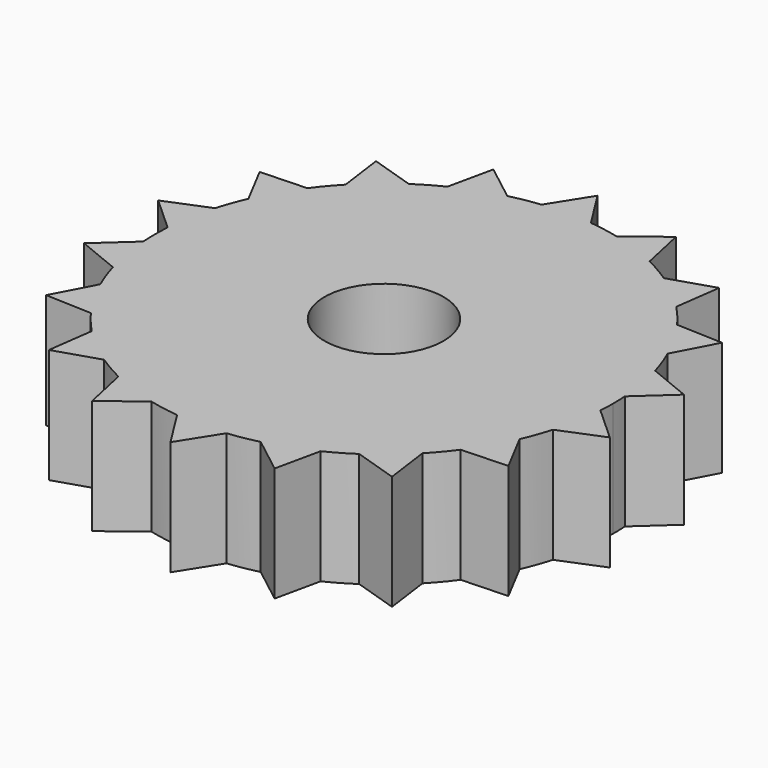
from build123d import *

# Parameters (mm, degrees)
F0_R     = 3.302
F1_DEPTH = 6.35


with BuildPart() as f1:
    # F0 (on Top) → F1 (new body)
    with BuildSketch(Plane.XY):
        with BuildLine():
            ThreePointArc((12.671918, -0.844097), (12.692977, -0.422282), (12.7, 0))
            ThreePointArc((12.7, 0), (12.692977, 0.422282), (12.671918, 0.844097))
            ThreePointArc((12.671918, 0.844097), (12.507058, 2.205332), (12.196406, 3.540859))
            ThreePointArc((12.196406, 3.540859), (11.934096, 4.343656), (11.619009, 5.127243))
            ThreePointArc((11.619009, 5.127243), (10.998523, 6.35), (10.249828, 7.498736))
            ThreePointArc((10.249828, 7.498736), (9.728764, 8.163403), (9.164677, 8.791968))
            ThreePointArc((9.164677, 8.791968), (8.163403, 9.728764), (7.066969, 10.552154))
            ThreePointArc((7.066969, 10.552154), (6.35, 10.998523), (5.604949, 11.396251))
            ThreePointArc((5.604949, 11.396251), (4.343656, 11.934096), (3.031729, 12.332827))
            ThreePointArc((3.031729, 12.332827), (2.205332, 12.507058), (1.369182, 12.625979))
            ThreePointArc((1.369182, 12.625979), (0.685591, 12.681481), (0, 12.7))
            ThreePointArc((0, 12.7), (-0.685591, 12.681481), (-1.369182, 12.625979))
            ThreePointArc((-1.369182, 12.625979), (-2.205332, 12.507058), (-3.031729, 12.332827))
            ThreePointArc((-3.031729, 12.332827), (-4.343656, 11.934096), (-5.604949, 11.396251))
            ThreePointArc((-5.604949, 11.396251), (-6.35, 10.998523), (-7.066969, 10.552154))
            ThreePointArc((-7.066969, 10.552154), (-8.163403, 9.728764), (-9.164677, 8.791968))
            ThreePointArc((-9.164677, 8.791968), (-9.728764, 8.163403), (-10.249828, 7.498736))
            ThreePointArc((-10.249828, 7.498736), (-10.998523, 6.35), (-11.619009, 5.127243))
            ThreePointArc((-11.619009, 5.127243), (-11.934096, 4.343656), (-12.196406, 3.540859))
            ThreePointArc((-12.196406, 3.540859), (-12.507058, 2.205332), (-12.671918, 0.844097))
            ThreePointArc((-12.671918, 0.844097), (-12.7, 0), (-12.671918, -0.844097))
            ThreePointArc((-12.671918, -0.844097), (-12.507058, -2.205332), (-12.196406, -3.540859))
            ThreePointArc((-12.196406, -3.540859), (-11.934096, -4.343656), (-11.619009, -5.127243))
            ThreePointArc((-11.619009, -5.127243), (-10.998523, -6.35), (-10.249828, -7.498736))
            ThreePointArc((-10.249828, -7.498736), (-9.728764, -8.163403), (-9.164677, -8.791968))
            ThreePointArc((-9.164677, -8.791968), (-8.163403, -9.728764), (-7.066969, -10.552154))
            ThreePointArc((-7.066969, -10.552154), (-6.35, -10.998523), (-5.604949, -11.396251))
            ThreePointArc((-5.604949, -11.396251), (-4.343656, -11.934096), (-3.031729, -12.332827))
            ThreePointArc((-3.031729, -12.332827), (-2.205332, -12.507058), (-1.369182, -12.625979))
            ThreePointArc((-1.369182, -12.625979), (0, -12.7), (1.369182, -12.625979))
            ThreePointArc((1.369182, -12.625979), (2.205332, -12.507058), (3.031729, -12.332827))
            ThreePointArc((3.031729, -12.332827), (4.343656, -11.934096), (5.604949, -11.396251))
            ThreePointArc((5.604949, -11.396251), (6.35, -10.998523), (7.066969, -10.552154))
            ThreePointArc((7.066969, -10.552154), (8.163403, -9.728764), (9.164677, -8.791968))
            ThreePointArc((9.164677, -8.791968), (9.728764, -8.163403), (10.249828, -7.498736))
            ThreePointArc((10.249828, -7.498736), (10.998523, -6.35), (11.619009, -5.127243))
            ThreePointArc((11.619009, -5.127243), (11.934096, -4.343656), (12.196406, -3.540859))
            ThreePointArc((12.196406, -3.540859), (12.507058, -2.205332), (12.671918, -0.844097))
        make_face()
        Circle(F0_R, mode=Mode.SUBTRACT)
        with BuildLine():
            ThreePointArc((12.196406, 3.540859), (12.507058, 2.205332), (12.671918, 0.844097))
            Line((12.671918, 0.844097), (14.570677, 2.569203))
            Line((14.570677, 2.569203), (12.196406, 3.540859))
        make_face()
        with BuildLine():
            Line((14.570677, -2.569203), (12.671918, -0.844097))
            ThreePointArc((12.671918, -0.844097), (12.507058, -2.205332), (12.196406, -3.540859))
            Line((12.196406, -3.540859), (14.570677, -2.569203))
        make_face()
        with BuildLine():
            ThreePointArc((10.249828, 7.498736), (10.998523, 6.35), (11.619009, 5.127243))
            Line((11.619009, 5.127243), (12.813238, 7.397727))
            Line((12.813238, 7.397727), (10.249828, 7.498736))
        make_face()
        with BuildLine():
            Line((12.813238, -7.397727), (11.619009, -5.127243))
            ThreePointArc((11.619009, -5.127243), (10.998523, -6.35), (10.249828, -7.498736))
            Line((10.249828, -7.498736), (12.813238, -7.397727))
        make_face()
        with BuildLine():
            ThreePointArc((7.066969, 10.552154), (8.163403, 9.728764), (9.164677, 8.791968))
            Line((9.164677, 8.791968), (9.510334, 11.333975))
            Line((9.510334, 11.333975), (7.066969, 10.552154))
        make_face()
        with BuildLine():
            Line((9.510334, -11.333975), (9.164677, -8.791968))
            ThreePointArc((9.164677, -8.791968), (8.163403, -9.728764), (7.066969, -10.552154))
            Line((7.066969, -10.552154), (9.510334, -11.333975))
        make_face()
        with BuildLine():
            ThreePointArc((3.031729, 12.332827), (4.343656, 11.934096), (5.604949, 11.396251))
            Line((5.604949, 11.396251), (5.060343, 13.903178))
            Line((5.060343, 13.903178), (3.031729, 12.332827))
        make_face()
        with BuildLine():
            Line((5.060343, -13.903178), (5.604949, -11.396251))
            ThreePointArc((5.604949, -11.396251), (4.343656, -11.934096), (3.031729, -12.332827))
            Line((3.031729, -12.332827), (5.060343, -13.903178))
        make_face()
        with BuildLine():
            ThreePointArc((0, 12.7), (0.685591, 12.681481), (1.369182, 12.625979))
            Line((1.369182, 12.625979), (0, 14.795453))
            Line((0, 14.795453), (0, 12.7))
        make_face()
        with BuildLine():
            Line((0, -14.795453), (1.369182, -12.625979))
            ThreePointArc((1.369182, -12.625979), (0, -12.7), (-1.369182, -12.625979))
            Line((-1.369182, -12.625979), (0, -14.795453))
        make_face()
        with BuildLine():
            ThreePointArc((-1.369182, 12.625979), (-0.685591, 12.681481), (0, 12.7))
            Line((0, 12.7), (0, 14.795453))
            Line((0, 14.795453), (-1.369182, 12.625979))
        make_face()
        with BuildLine():
            Line((-5.060343, -13.903178), (-3.031729, -12.332827))
            ThreePointArc((-3.031729, -12.332827), (-4.343656, -11.934096), (-5.604949, -11.396251))
            Line((-5.604949, -11.396251), (-5.060343, -13.903178))
        make_face()
        with BuildLine():
            ThreePointArc((-5.604949, 11.396251), (-4.343656, 11.934096), (-3.031729, 12.332827))
            Line((-3.031729, 12.332827), (-5.060343, 13.903178))
            Line((-5.060343, 13.903178), (-5.604949, 11.396251))
        make_face()
        with BuildLine():
            Line((-9.510334, -11.333975), (-7.066969, -10.552154))
            ThreePointArc((-7.066969, -10.552154), (-8.163403, -9.728764), (-9.164677, -8.791968))
            Line((-9.164677, -8.791968), (-9.510334, -11.333975))
        make_face()
        with BuildLine():
            ThreePointArc((-9.164677, 8.791968), (-8.163403, 9.728764), (-7.066969, 10.552154))
            Line((-7.066969, 10.552154), (-9.510334, 11.333975))
            Line((-9.510334, 11.333975), (-9.164677, 8.791968))
        make_face()
        with BuildLine():
            Line((-12.813238, -7.397727), (-10.249828, -7.498736))
            ThreePointArc((-10.249828, -7.498736), (-10.998523, -6.35), (-11.619009, -5.127243))
            Line((-11.619009, -5.127243), (-12.813238, -7.397727))
        make_face()
        with BuildLine():
            ThreePointArc((-11.619009, 5.127243), (-10.998523, 6.35), (-10.249828, 7.498736))
            Line((-10.249828, 7.498736), (-12.813238, 7.397727))
            Line((-12.813238, 7.397727), (-11.619009, 5.127243))
        make_face()
        with BuildLine():
            Line((-14.570677, -2.569203), (-12.196406, -3.540859))
            ThreePointArc((-12.196406, -3.540859), (-12.507058, -2.205332), (-12.671918, -0.844097))
            Line((-12.671918, -0.844097), (-14.570677, -2.569203))
        make_face()
        with BuildLine():
            ThreePointArc((-12.671918, 0.844097), (-12.507058, 2.205332), (-12.196406, 3.540859))
            Line((-12.196406, 3.540859), (-14.570677, 2.569203))
            Line((-14.570677, 2.569203), (-12.671918, 0.844097))
        make_face()
    extrude(amount=F1_DEPTH)


solid = f1.part
